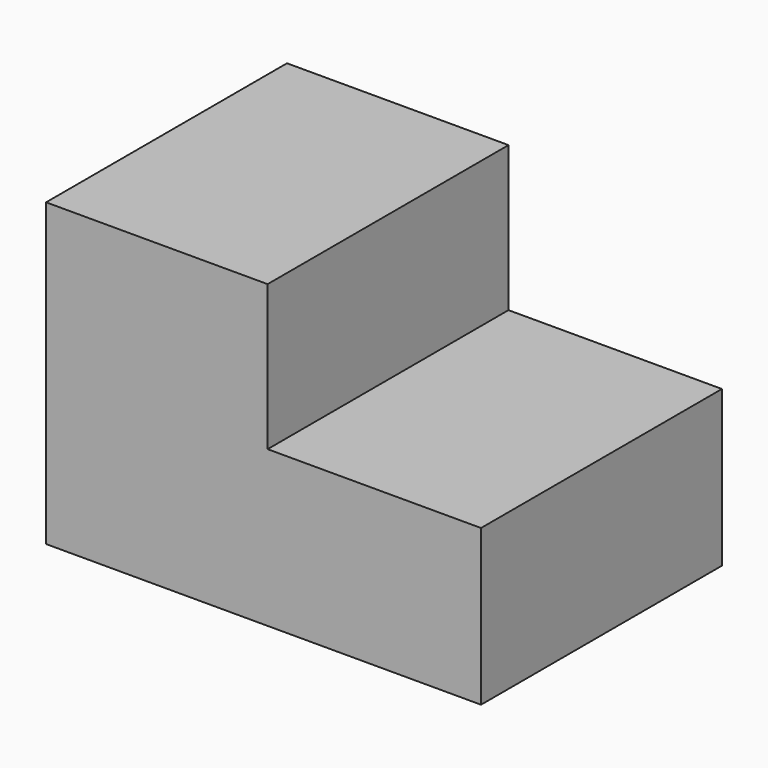
from build123d import *

# Parameters (mm, degrees)
F1_DEPTH = 25.4
F2_DEPTH = 67.818
F3_DEPTH = 20.828
F4_DEPTH = 8.636


with BuildPart() as f1:
    # F0 (on Front) → F1 (new body)
    with BuildSketch(Plane.XZ):
        Polygon((54.8201352358, 0), (-5.1254355349, 0), (-5.1254355349, 34.9269658327), (-58.3828687668, 34.9269658327), (-58.3828687668, -37.4040566385), (54.8201352358, -37.4040566385), align=None)
    extrude(amount=F1_DEPTH)

    # F2 (add): a face of the model
    f2_faces = [f1.faces().sort_by_distance(p)[0] for p in [
        (-10.92964208, -25.4, -7.6636129895),
    ]]
    extrude(f2_faces, amount=F2_DEPTH)

    # F3 (cut): a face of the model
    f3_faces = [f1.faces().sort_by_distance(p)[0] for p in [
        (-10.92964208, -93.218, -7.6636129895),
    ]]
    extrude(f3_faces, amount=-F3_DEPTH, mode=Mode.SUBTRACT)

    # F4 (cut): a face of the model
    f4_faces = [f1.faces().sort_by_distance(p)[0] for p in [
        (54.8201352358, -36.195, -18.7020283192),
    ]]
    extrude(f4_faces, amount=-F4_DEPTH, mode=Mode.SUBTRACT)


solid = f1.part
